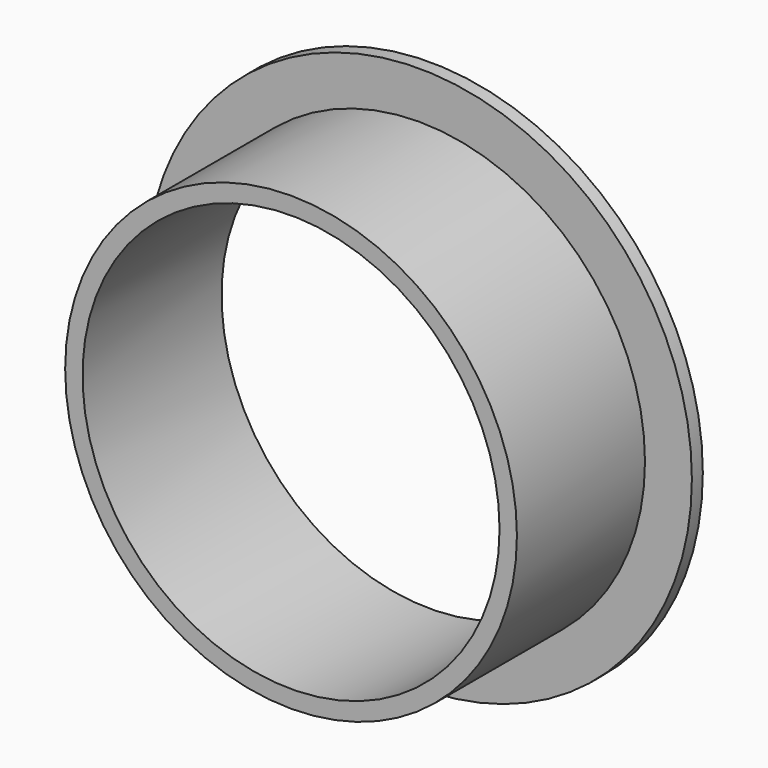
from build123d import *

# Parameters (mm, degrees)
F0_R     = 19.939
F0_R_2   = 16.51
F1_DEPTH = 1
F2_R     = 16.51
F2_R_2   = 15.24
F3_DEPTH = 12.7


with BuildPart() as f1:
    # F0 (on Front) → F1 (new body)
    with BuildSketch(Plane.XZ):
        Circle(F0_R)
        Circle(F0_R_2, mode=Mode.SUBTRACT)
    extrude(amount=F1_DEPTH)

    # F2 (on Front) → F3 (join)
    with BuildSketch(Plane.XZ):
        Circle(F2_R)
        Circle(F2_R_2, mode=Mode.SUBTRACT)
    extrude(amount=F3_DEPTH)


solid = f1.part
